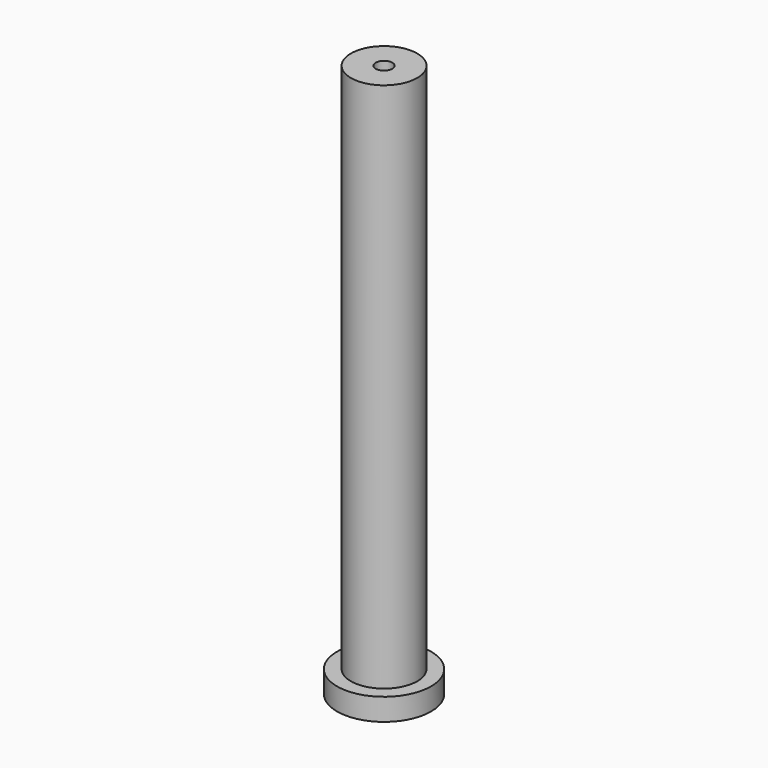
from build123d import *

# Parameters (mm, degrees)
F0_R     = 8.5
F1_DEPTH = 4
F2_R     = 6
F3_DEPTH = 100
F4_R     = 1.5
F5_DEPTH = 114.9


with BuildPart() as f1:
    # F0 (on Top) → F1 (new body)
    with BuildSketch(Plane.XY):
        Circle(F0_R)
    extrude(amount=F1_DEPTH)

    # F2 (on Top) → F3 (join)
    with BuildSketch(Plane.XY):
        Circle(F2_R)
    extrude(amount=F3_DEPTH)

    # F4 (on face) → F5 (cut)
    with BuildSketch(Plane.XY.offset(100)):
        Circle(F4_R)
    extrude(amount=-F5_DEPTH, mode=Mode.SUBTRACT)


solid = f1.part
